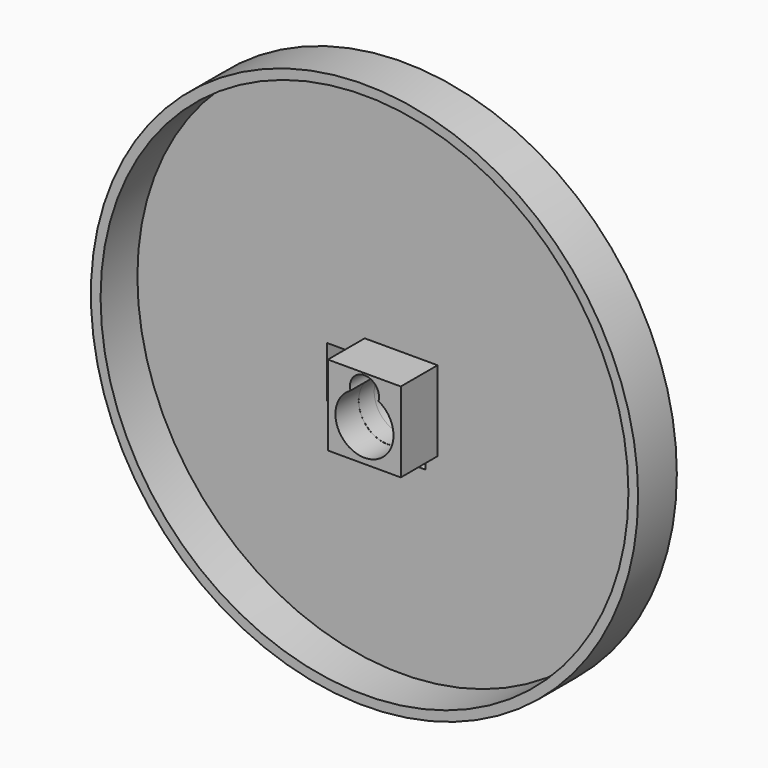
from build123d import *

# Parameters (mm, degrees)
SKETCH075_R          = 56.5
PAD033_DEPTH         = 10
SKETCH076_R          = 54.5
POCKET035_DEPTH      = 9.5
SKETCH078_W          = 15.049351
SKETCH078_H          = 16.532604
PAD034_DEPTH         = 9.5
POCKET037_DEPTH      = 6
SKETCH081_R          = 2.355
POCKET038_DEPTH      = 6
SKETCH083_R          = 45
PAD035_DEPTH         = 5
SKETCH082_R          = 6
POCKET039_DEPTH      = 4
POCKET039_DEPTH_BACK = 5
SKETCH084_R          = 40
SKETCH084_R_2        = 37.5
POCKET040_DEPTH      = 5
SKETCH085_W          = 7.5
SKETCH085_H          = 10.5
SKETCH085_W_2        = 9
SKETCH085_H_2        = 3
POCKET041_DEPTH      = 5.501


with BuildPart() as part:
    # Sketch075 → Pad033 (new body)
    with BuildSketch(Plane.XZ):
        with Locations((52.5, -52.5)):
            Circle(SKETCH075_R)
    extrude(amount=PAD033_DEPTH)

    # Sketch076 (on Face3 of Pad033) → Pocket035 (cut)
    with BuildSketch(Plane.XZ.offset(10)):
        with Locations((52.5, -52.5)):
            Circle(SKETCH076_R)
    extrude(amount=-POCKET035_DEPTH, mode=Mode.SUBTRACT)

    # Sketch078 (on Face5 of Pocket035) → Pad034 (join)
    with BuildSketch(Plane.XZ.offset(0.5)):
        with Locations((52.4672225, -56.755495)):
            Rectangle(SKETCH078_W, SKETCH078_H)
    extrude(amount=PAD034_DEPTH)

    # Sketch080 (on Face10 of Pad034) → Pocket037 (cut)
    with BuildSketch(Plane.XZ.offset(10)):
        with BuildLine():
            ThreePointArc((49.5898794903, -52.636688), (52.494617, -63.886688), (55.3993545097, -52.636688))
            ThreePointArc((55.3993545097, -52.636688), (52.494617, -48.886688), (49.5898794903, -52.636688))
        make_face()
    extrude(amount=-POCKET037_DEPTH, mode=Mode.SUBTRACT)

    # Sketch081 (on Face13 of Pocket037) → Pocket038 (cut)
    with BuildSketch(Plane.XZ.offset(4)):
        with Locations((52.5, -57.86)):
            Circle(SKETCH081_R)
    extrude(amount=-POCKET038_DEPTH, mode=Mode.SUBTRACT)

    # Sketch083 (on Face2 of Pocket039) → Pad035 (join)
    with BuildSketch(Plane(origin=(0, 0, 0), x_dir=(1, 0, 0), z_dir=(0, 1, 0))):
        with Locations((52.5, 57.836407)):
            Circle(SKETCH083_R)
    extrude(amount=PAD035_DEPTH)

    # Sketch082 (on Face2 of Pocket038) → Pocket039 (cut, two sides)
    with BuildSketch(Plane(origin=(0, 0, 0), x_dir=(1, 0, 0), z_dir=(0, 1, 0))) as pocket039_sk:
        with Locations((52.5, 57.862625)):
            Circle(SKETCH082_R)
    extrude(amount=-POCKET039_DEPTH, mode=Mode.SUBTRACT)
    extrude(pocket039_sk.sketch, amount=POCKET039_DEPTH_BACK, mode=Mode.SUBTRACT)

    # Sketch084 (on Face6 of Pocket039) → Pocket040 (cut)
    with BuildSketch(Plane(origin=(0, 5, 0), x_dir=(1, 0, 0), z_dir=(0, 1, 0))):
        with Locations((52.5, 57.87)):
            Circle(SKETCH084_R)
        with Locations((52.5, 57.87)):
            Circle(SKETCH084_R_2, mode=Mode.SUBTRACT)
    extrude(amount=-POCKET040_DEPTH, mode=Mode.SUBTRACT)

    # Sketch085 (on Face7 of Pocket040) → Pocket041 (cut, through all)
    with BuildSketch(Plane.XZ.offset(0.5)):
        with Locations((40.8908443219, -57.1104271845)):
            Rectangle(SKETCH085_W, SKETCH085_H)
        with Locations((52.9592567125, -66.7783337125)):
            Rectangle(SKETCH085_W_2, SKETCH085_H_2)
    extrude(amount=-POCKET041_DEPTH, mode=Mode.SUBTRACT)


with BuildPart() as part_1:
    # Body010 placement: moved
    add(part.part.moved(Location((0, 169, 0))))


solid = part_1.part
